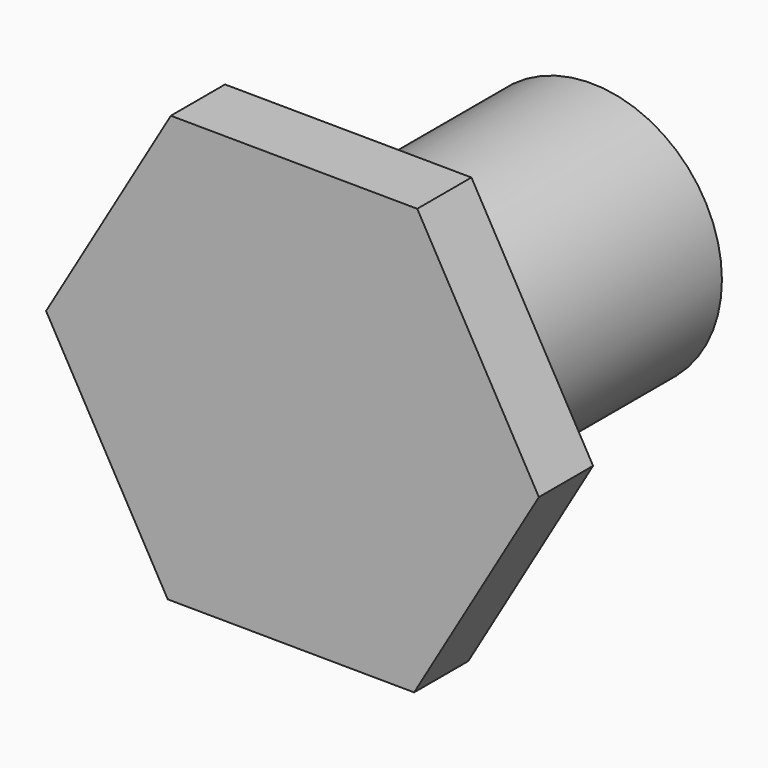
from build123d import *

# Parameters (mm, degrees)
F0_R     = 24.5
F1_DEPTH = 70
F2_R     = 24.5
F3_DEPTH = 12.7


with BuildPart() as f1:
    # F0 (on Front) → F1 (new body)
    with BuildSketch(Plane.XZ):
        Circle(F0_R)
    extrude(amount=F1_DEPTH)

    # F2 (on face) → F3 (join)
    with BuildSketch(Plane.XZ.offset(70)):
        Polygon((46.186788, -0.337539), (23.385711, 39.830162), (-22.801077, 40.167701), (-46.186788, 0.337539), (-23.385711, -39.830162), (22.801077, -40.167701), align=None)
        Circle(F2_R, mode=Mode.SUBTRACT)
    extrude(amount=-F3_DEPTH)


solid = f1.part
